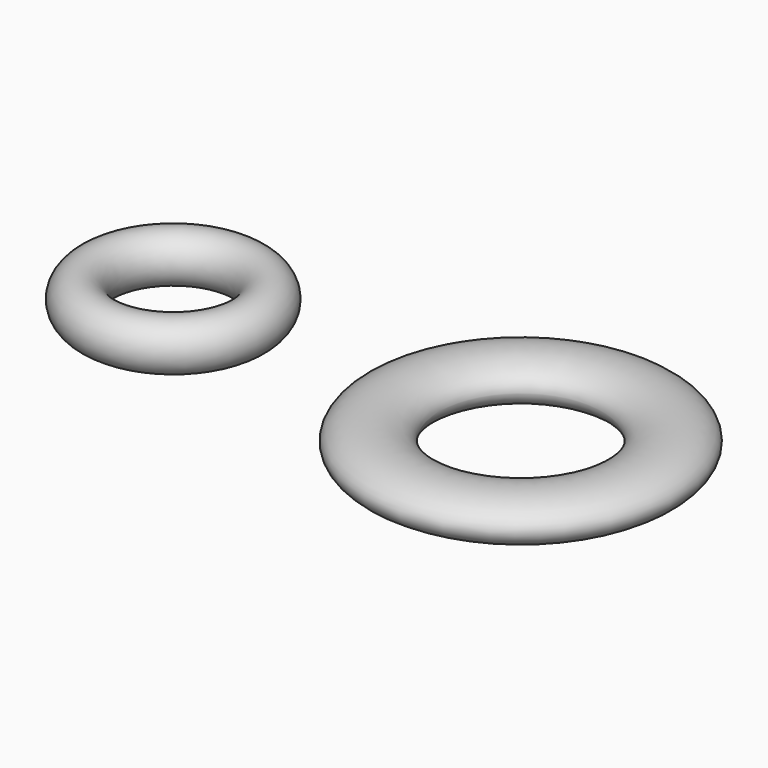
from build123d import *

# Parameters (mm, degrees)
F0_R = 5.715


with BuildPart() as f2:
    # F0 (on Front) → F2 (revolve)
    with BuildSketch(Plane.XZ):
        with Locations((-46.299495, 44.201329)):
            Circle(F0_R)
    revolve(axis=Axis((-28.694572, 0, 39.708914), (0, 0, -1)))


with BuildPart() as f5:
    # F3 (on Front) → F5 (revolve)
    with BuildSketch(Plane.XZ):
        with BuildLine():
            add(Edge.make_bspline(
                [(33.720692, 41.384481), (33.720692, 50.183299), (20.385692, 45.78389), (7.050692, 41.384481), (20.385692, 36.985072), (33.720692, 32.585663), (33.720692, 41.384481)],
                knots=[0, 0, 0, 2.094395, 2.094395, 4.18879, 4.18879, 6.283185, 6.283185, 6.283185], degree=2, weights=[1, 0.5, 1, 0.5, 1, 0.5, 1]))
        make_face()
    revolve(axis=Axis((52.762985, 0, 54.312136), (0, 0, -1)))


solid = Compound([f2.part, f5.part])
